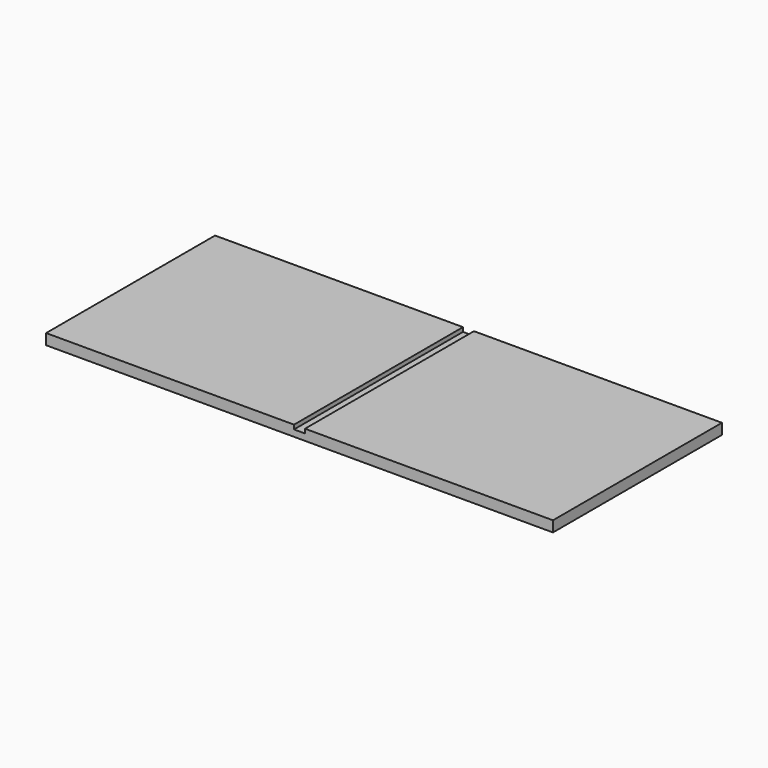
from build123d import *

# Parameters (mm, degrees)
SKETCH002_W     = 600
SKETCH002_H     = 250
PAD002_DEPTH    = 12.7
SKETCH008_W     = 13
SKETCH008_H     = 264.944031
POCKET002_DEPTH = 5


with BuildPart() as bottom:
    # Sketch002 → Pad002 (new body)
    with BuildSketch(Plane.XY):
        with Locations((300, 541.24469)):
            Rectangle(SKETCH002_W, SKETCH002_H)
    extrude(amount=PAD002_DEPTH)

    # Sketch008 (on Face6 of Pad002) → Pocket002 (cut)
    with BuildSketch(Plane.XY.offset(12.7)):
        with Locations((300, 543.505463)):
            Rectangle(SKETCH008_W, SKETCH008_H)
    extrude(amount=-POCKET002_DEPTH, mode=Mode.SUBTRACT)


with BuildPart() as model_bottom_mirrored:
    # Mirror002: instance of Bottom
    add(bottom.part.mirror(Plane(origin=(-4.230286, 675.934937, 0), x_dir=(-1, 0, 0), z_dir=(0, -1, 0))))


solid = model_bottom_mirrored.part
